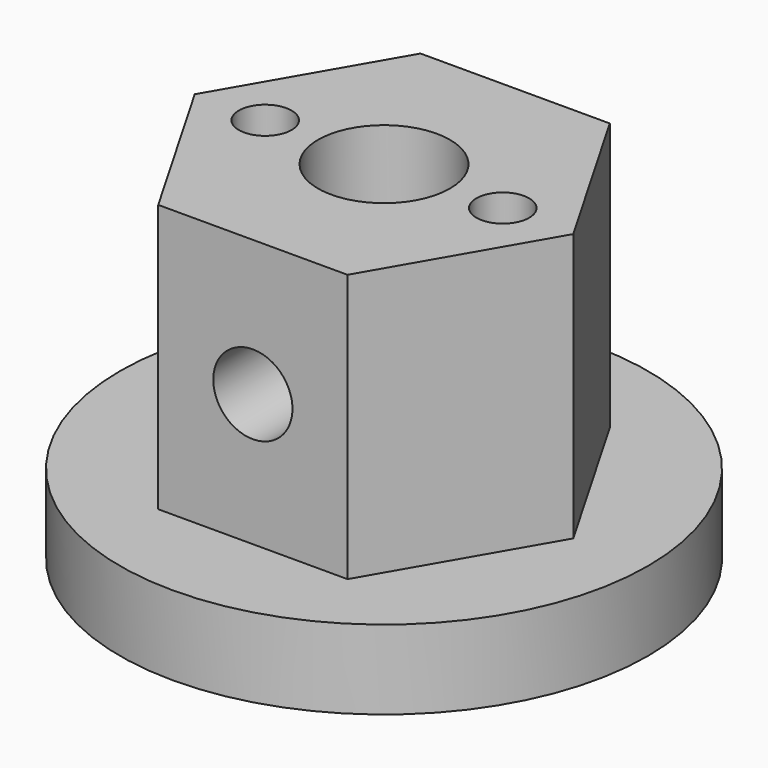
from build123d import *

# Parameters (mm, degrees)
SKETCH_R      = 2.5
SKETCH_R_2    = 1
PAD_DEPTH     = 10.15
SKETCH001_R   = 1.5
POCKET_DEPTH  = 12.419804
SKETCH002_R   = 10
SKETCH002_R_2 = 2.5
PAD001_DEPTH  = 3


with BuildPart() as part:
    # Sketch → Pad (new body)
    with BuildSketch(Plane.XY):
        Polygon((-7.17, 0), (-3.585, -6.209402), (3.585, -6.209402), (7.17, 0), (3.585, 6.209402), (-3.585, 6.209402), align=None)
        Circle(SKETCH_R, mode=Mode.SUBTRACT)
        with Locations((4.5, 0)):
            Circle(SKETCH_R_2, mode=Mode.SUBTRACT)
        with Locations((-4.5, 0)):
            Circle(SKETCH_R_2, mode=Mode.SUBTRACT)
    extrude(amount=PAD_DEPTH)

    # Sketch001 → Pocket (cut, through all)
    with BuildSketch(Plane(origin=(0, 6.209402, 0), x_dir=(-1, 0, 0), z_dir=(0, 1, 0))):
        with Locations((0, 5)):
            Circle(SKETCH001_R)
    extrude(amount=-POCKET_DEPTH, mode=Mode.SUBTRACT)

    # Sketch002 → Pad001 (new body)
    with BuildSketch(Plane(origin=(0, 0, 0), x_dir=(1, 0, 0), z_dir=(0, 0, -1))):
        Circle(SKETCH002_R)
        Circle(SKETCH002_R_2, mode=Mode.SUBTRACT)
    extrude(amount=PAD001_DEPTH)


solid = part.part
